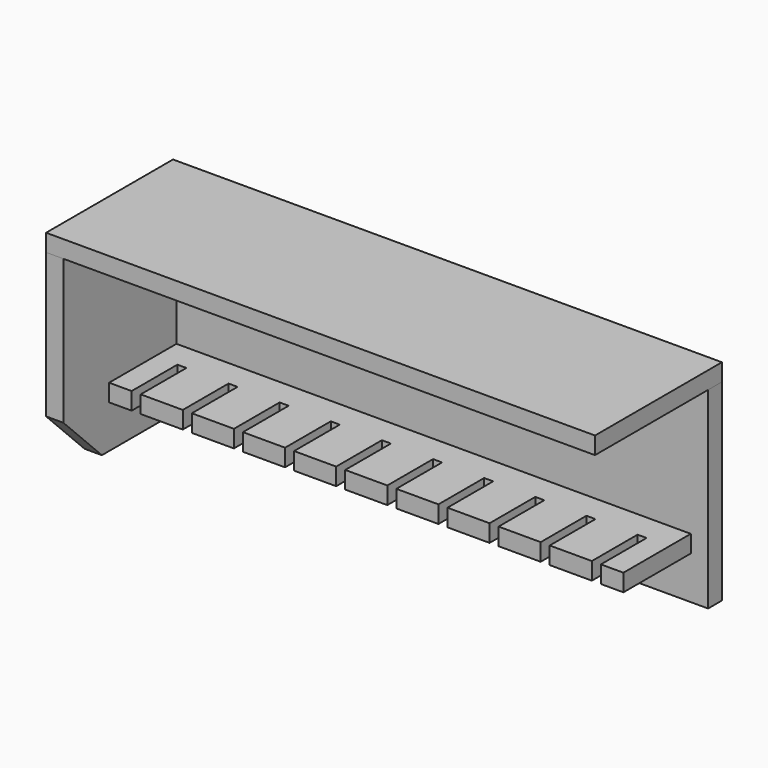
from build123d import *

# Parameters (mm, degrees)
F0_W      = 579.4375
F0_H      = 203.2
F1_DEPTH  = 18.25625
F2_W      = 18.25625
F2_H      = 203.2
F3_DEPTH  = 149.225
F4_W      = 579.4375
F4_H      = 167.48125
F5_DEPTH  = 18.25625
F6_W      = 542.925
F6_H      = 18.25625
F7_DEPTH  = 88.9
F8_W      = 9.525
F8_H      = 60.325
F9_DEPTH  = 63.501
F11_DEPTH = 25.4


with BuildPart() as f1:
    # F0 (on Front) → F1 (new body)
    with BuildSketch(Plane.XZ):
        Rectangle(F0_W, F0_H)
    extrude(amount=-F1_DEPTH)


with BuildPart() as f3:
    # F2 (on face) → F3 (new body)
    with BuildSketch(Plane.XZ):
        with Locations((-280.590625, 0)):
            Rectangle(F2_W, F2_H)
    extrude(amount=F3_DEPTH)

    # F10 (on face) → F11 (cut)
    with BuildSketch(Plane(origin=(-289.71875, 0, 0), x_dir=(0, -1, 0), z_dir=(-1, 0, 0))):
        Polygon((149.225, -101.6), (149.225, -50.8), (98.425, -101.6), align=None)
    extrude(amount=-F11_DEPTH, mode=Mode.SUBTRACT)


with BuildPart() as f5:
    # F4 (on face) → F5 (new body)
    with BuildSketch(Plane.XY.offset(101.6)):
        with Locations((0, -65.484375)):
            Rectangle(F4_W, F4_H)
    extrude(amount=F5_DEPTH)


with BuildPart() as f7:
    # F6 (on face) → F7 (new body)
    with BuildSketch(Plane.XZ):
        with Locations((0, -47.228125)):
            Rectangle(F6_W, F6_H)
    extrude(amount=F7_DEPTH)

    # F8 (on face) → F9 (cut, through all)
    with BuildSketch(Plane.XY.offset(-38.1)):
        with Locations((-242.8875, -58.7375)):
            Rectangle(F8_W, F8_H)
        with Locations((-188.9125, -58.7375)):
            Rectangle(F8_W, F8_H)
        with Locations((-134.9375, -58.7375)):
            Rectangle(F8_W, F8_H)
        with Locations((-80.9625, -58.7375)):
            Rectangle(F8_W, F8_H)
        with Locations((-26.9875, -58.7375)):
            Rectangle(F8_W, F8_H)
        with Locations((26.9875, -58.7375)):
            Rectangle(F8_W, F8_H)
        with Locations((80.9625, -58.7375)):
            Rectangle(F8_W, F8_H)
        with Locations((134.9375, -58.7375)):
            Rectangle(F8_W, F8_H)
        with Locations((188.9125, -58.7375)):
            Rectangle(F8_W, F8_H)
        with Locations((242.8875, -58.7375)):
            Rectangle(F8_W, F8_H)
    extrude(amount=-F9_DEPTH, mode=Mode.SUBTRACT)


solid = Compound([f1.part, f3.part, f5.part, f7.part])
